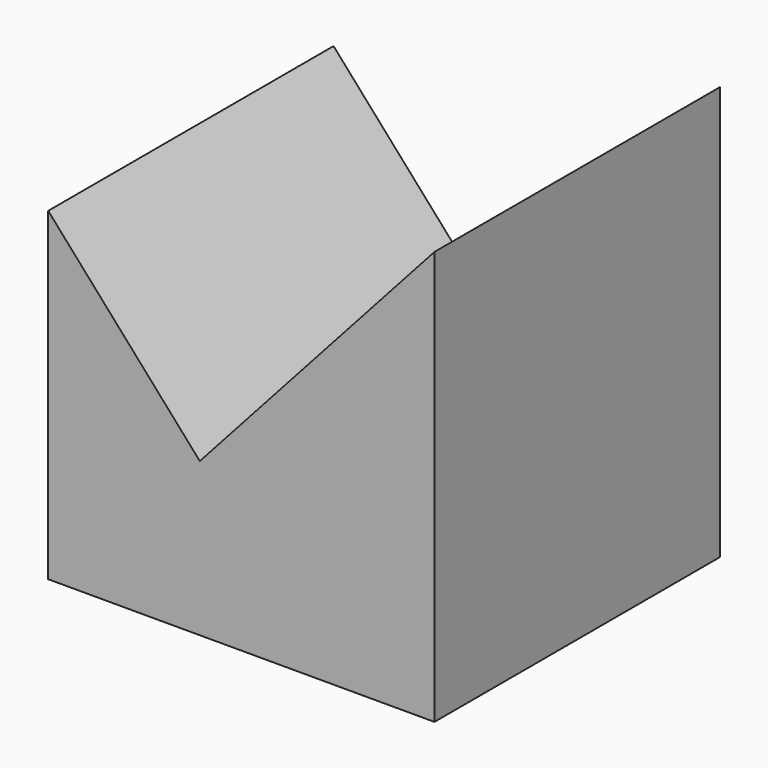
from build123d import *

# Parameters (mm, degrees)
F1_DEPTH = 103.378
F2_T     = -2.54


with BuildPart() as f1:
    # F0 (on Front) → F1 (new body)
    with BuildSketch(Plane.XZ):
        Polygon((-71.7586703687, 0), (0, 0), (40.1820645289, 0), (40.1820645289, 119.9224553038), (-27.8168563806, 44.4326761603), (-71.7586703687, 94.0080558437), align=None)
    extrude(amount=F1_DEPTH)

    # F2
    f2_openings = [f1.faces().sort_by_distance(p)[0] for p in [
        (-15.788303, -51.689, 0),
    ]]
    offset(amount=F2_T, openings=f2_openings, kind=Kind.INTERSECTION)


solid = f1.part
